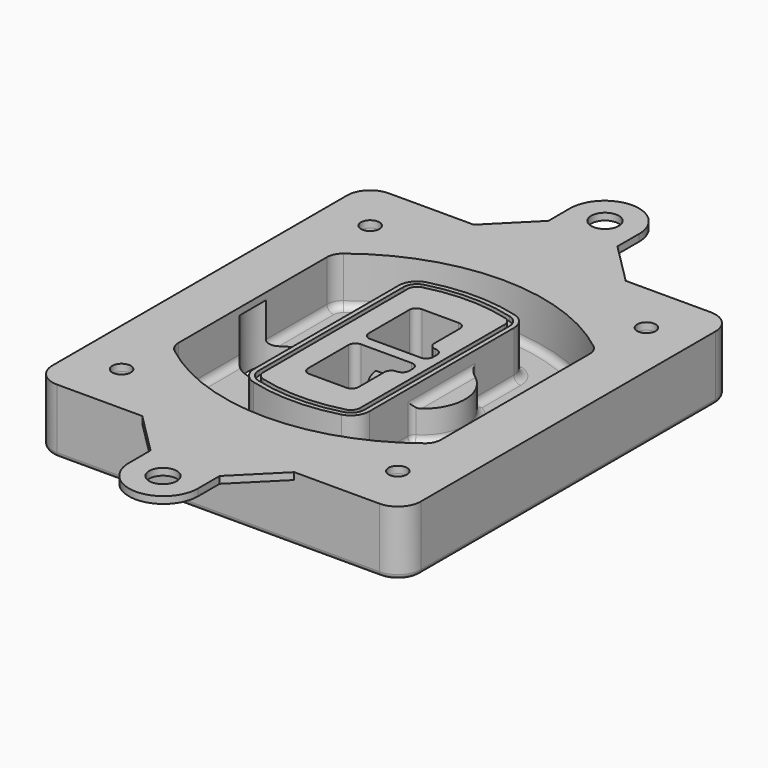
from build123d import *

# Parameters (mm, degrees)
F0_R      = 4
F1_DEPTH  = 25
F2_DEPTH  = 3
F3_DEPTH  = 18
F5_DEPTH  = 21
F6_DEPTH  = 2
F8_DEPTH  = 20
F9_DEPTH  = 16
F10_DEPTH = 25
F7_R      = 6
F7_R_2    = 4
F11_DEPTH = 6
F13_DEPTH = 9
F14_R     = 3
F15_R     = 2
F16_R     = 6
F16_R_2   = 4
F17_DEPTH = 3


with BuildPart() as f1:
    # F0 (on Top) → F1 (new body)
    with BuildSketch(Plane.XY):
        with BuildLine():
            ThreePointArc((-80, -80), (-77.0710678119, -87.0710678119), (-70, -90))
            Line((-70, -90), (70, -90))
            ThreePointArc((70, -90), (77.0710678119, -87.0710678119), (80, -80))
            Line((80, -80), (80, 80))
            ThreePointArc((80, 80), (77.0710678119, 87.0710678119), (70, 90))
            Line((70, 90), (-70, 90))
            ThreePointArc((-70, 90), (-77.0710678119, 87.0710678119), (-80, 80))
            Line((-80, 80), (-80, -80))
        make_face()
        with Locations((-60, -67.5)):
            Circle(F0_R, mode=Mode.SUBTRACT)
        with Locations((60, -67.5)):
            Circle(F0_R, mode=Mode.SUBTRACT)
        with Locations((-60, 67.5)):
            Circle(F0_R, mode=Mode.SUBTRACT)
        with BuildLine():
            ThreePointArc((-64, 40.2934422872), (-62.5820384798, 46.4328484224), (-58.6153846154, 51.3286200352))
            ThreePointArc((-58.6153846154, 51.3286200352), (0, 71.5), (58.6153846154, 51.3286200352))
            ThreePointArc((58.6153846154, 51.3286200352), (62.5820384798, 46.4328484224), (64, 40.2934422872))
            Line((64, 40.2934422872), (64, -40.2934422872))
            ThreePointArc((64, -40.2934422872), (62.5820384798, -46.4328484224), (58.6153846154, -51.3286200352))
            ThreePointArc((58.6153846154, -51.3286200352), (0, -71.5), (-58.6153846154, -51.3286200352))
            ThreePointArc((-58.6153846154, -51.3286200352), (-62.5820384798, -46.4328484224), (-64, -40.2934422872))
            Line((-64, -40.2934422872), (-64, 40.2934422872))
        make_face(mode=Mode.SUBTRACT)
        with Locations((60, 67.5)):
            Circle(F0_R, mode=Mode.SUBTRACT)
        with BuildLine():
            ThreePointArc((58.6153846154, 51.3286200352), (0, 71.5), (-58.6153846154, 51.3286200352))
            ThreePointArc((-58.6153846154, 51.3286200352), (-62.5820384798, 46.4328484224), (-64, 40.2934422872))
            Line((-64, 40.2934422872), (-64, -40.2934422872))
            ThreePointArc((-64, -40.2934422872), (-62.5820384798, -46.4328484224), (-58.6153846154, -51.3286200352))
            ThreePointArc((-58.6153846154, -51.3286200352), (0, -71.5), (58.6153846154, -51.3286200352))
            ThreePointArc((58.6153846154, -51.3286200352), (62.5820384798, -46.4328484224), (64, -40.2934422872))
            Line((64, -40.2934422872), (64, 40.2934422872))
            ThreePointArc((64, 40.2934422872), (62.5820384798, 46.4328484224), (58.6153846154, 51.3286200352))
        make_face()
        with BuildLine():
            Line((-60, -40.2934422872), (-60, 40.2934422872))
            ThreePointArc((-60, 40.2934422872), (-58.9871703427, 44.6787323838), (-56.1538461538, 48.1757121072))
            ThreePointArc((-56.1538461538, 48.1757121072), (0, 67.5), (56.1538461538, 48.1757121072))
            ThreePointArc((56.1538461538, 48.1757121072), (58.9871703427, 44.6787323838), (60, 40.2934422872))
            Line((60, 40.2934422872), (60, -40.2934422872))
            ThreePointArc((60, -40.2934422872), (58.9871703427, -44.6787323838), (56.1538461538, -48.1757121072))
            ThreePointArc((56.1538461538, -48.1757121072), (0, -67.5), (-56.1538461538, -48.1757121072))
            ThreePointArc((-56.1538461538, -48.1757121072), (-58.9871703427, -44.6787323838), (-60, -40.2934422872))
        make_face(mode=Mode.SUBTRACT)
        with BuildLine():
            ThreePointArc((-56.1538461538, 48.1757121072), (-58.9871703427, 44.6787323838), (-60, 40.2934422872))
            Line((-60, 40.2934422872), (-60, -40.2934422872))
            ThreePointArc((-60, -40.2934422872), (-58.9871703427, -44.6787323838), (-56.1538461538, -48.1757121072))
            ThreePointArc((-56.1538461538, -48.1757121072), (0, -67.5), (56.1538461538, -48.1757121072))
            ThreePointArc((56.1538461538, -48.1757121072), (58.9871703427, -44.6787323838), (60, -40.2934422872))
            Line((60, -40.2934422872), (60, 40.2934422872))
            ThreePointArc((60, 40.2934422872), (58.9871703427, 44.6787323838), (56.1538461538, 48.1757121072))
            ThreePointArc((56.1538461538, 48.1757121072), (0, 67.5), (-56.1538461538, 48.1757121072))
        make_face()
        with BuildLine():
            ThreePointArc((54.3076923077, 45.8110311612), (56.2910192399, 43.3631453548), (57, 40.2934422872))
            Line((57, 40.2934422872), (57, -40.2934422872))
            ThreePointArc((57, -40.2934422872), (56.2910192399, -43.3631453548), (54.3076923077, -45.8110311612))
            ThreePointArc((54.3076923077, -45.8110311612), (0, -64.5), (-54.3076923077, -45.8110311612))
            ThreePointArc((-54.3076923077, -45.8110311612), (-56.2910192399, -43.3631453548), (-57, -40.2934422872))
            Line((-57, -40.2934422872), (-57, 40.2934422872))
            ThreePointArc((-57, 40.2934422872), (-56.2910192399, 43.3631453548), (-54.3076923077, 45.8110311612))
            ThreePointArc((-54.3076923077, 45.8110311612), (0, 64.5), (54.3076923077, 45.8110311612))
        make_face(mode=Mode.SUBTRACT)
        with BuildLine():
            Line((57, -40.2934422872), (57, 40.2934422872))
            ThreePointArc((57, 40.2934422872), (56.2910192399, 43.3631453548), (54.3076923077, 45.8110311612))
            ThreePointArc((54.3076923077, 45.8110311612), (0, 64.5), (-54.3076923077, 45.8110311612))
            ThreePointArc((-54.3076923077, 45.8110311612), (-56.2910192399, 43.3631453548), (-57, 40.2934422872))
            Line((-57, 40.2934422872), (-57, -40.2934422872))
            ThreePointArc((-57, -40.2934422872), (-56.2910192399, -43.3631453548), (-54.3076923077, -45.8110311612))
            ThreePointArc((-54.3076923077, -45.8110311612), (0, -64.5), (54.3076923077, -45.8110311612))
            ThreePointArc((54.3076923077, -45.8110311612), (56.2910192399, -43.3631453548), (57, -40.2934422872))
        make_face()
    extrude(amount=-F1_DEPTH)

    # F0 (on Top) → F2 (join)
    with BuildSketch(Plane.XY):
        with BuildLine():
            ThreePointArc((-56.1538461538, 48.1757121072), (-58.9871703427, 44.6787323838), (-60, 40.2934422872))
            Line((-60, 40.2934422872), (-60, -40.2934422872))
            ThreePointArc((-60, -40.2934422872), (-58.9871703427, -44.6787323838), (-56.1538461538, -48.1757121072))
            ThreePointArc((-56.1538461538, -48.1757121072), (0, -67.5), (56.1538461538, -48.1757121072))
            ThreePointArc((56.1538461538, -48.1757121072), (58.9871703427, -44.6787323838), (60, -40.2934422872))
            Line((60, -40.2934422872), (60, 40.2934422872))
            ThreePointArc((60, 40.2934422872), (58.9871703427, 44.6787323838), (56.1538461538, 48.1757121072))
            ThreePointArc((56.1538461538, 48.1757121072), (0, 67.5), (-56.1538461538, 48.1757121072))
        make_face()
        with BuildLine():
            ThreePointArc((54.3076923077, 45.8110311612), (56.2910192399, 43.3631453548), (57, 40.2934422872))
            Line((57, 40.2934422872), (57, -40.2934422872))
            ThreePointArc((57, -40.2934422872), (56.2910192399, -43.3631453548), (54.3076923077, -45.8110311612))
            ThreePointArc((54.3076923077, -45.8110311612), (0, -64.5), (-54.3076923077, -45.8110311612))
            ThreePointArc((-54.3076923077, -45.8110311612), (-56.2910192399, -43.3631453548), (-57, -40.2934422872))
            Line((-57, -40.2934422872), (-57, 40.2934422872))
            ThreePointArc((-57, 40.2934422872), (-56.2910192399, 43.3631453548), (-54.3076923077, 45.8110311612))
            ThreePointArc((-54.3076923077, 45.8110311612), (0, 64.5), (54.3076923077, 45.8110311612))
        make_face(mode=Mode.SUBTRACT)
    extrude(amount=F2_DEPTH)

    # F0 (on Top) → F3 (cut)
    with BuildSketch(Plane.XY):
        with BuildLine():
            Line((57, -40.2934422872), (57, 40.2934422872))
            ThreePointArc((57, 40.2934422872), (56.2910192399, 43.3631453548), (54.3076923077, 45.8110311612))
            ThreePointArc((54.3076923077, 45.8110311612), (0, 64.5), (-54.3076923077, 45.8110311612))
            ThreePointArc((-54.3076923077, 45.8110311612), (-56.2910192399, 43.3631453548), (-57, 40.2934422872))
            Line((-57, 40.2934422872), (-57, -40.2934422872))
            ThreePointArc((-57, -40.2934422872), (-56.2910192399, -43.3631453548), (-54.3076923077, -45.8110311612))
            ThreePointArc((-54.3076923077, -45.8110311612), (0, -64.5), (54.3076923077, -45.8110311612))
            ThreePointArc((54.3076923077, -45.8110311612), (56.2910192399, -43.3631453548), (57, -40.2934422872))
        make_face()
    extrude(amount=-F3_DEPTH, mode=Mode.SUBTRACT)

    # F4 (on face) → F5 (join, through all)
    with BuildSketch(Plane.XY.offset(3)):
        with BuildLine():
            ThreePointArc((-25, -39.2465276821), (-23.3511545998, -44.1109737193), (-19.0842911877, -46.9702398883))
            ThreePointArc((-19.0842911877, -46.9702398883), (0, -49.5), (19.0842911877, -46.9702398883))
            ThreePointArc((19.0842911877, -46.9702398883), (23.3511545998, -44.1109737193), (25, -39.2465276821))
            Line((25, -39.2465276821), (25, 39.2465276821))
            ThreePointArc((25, 39.2465276821), (23.3511545998, 44.1109737193), (19.0842911877, 46.9702398883))
            ThreePointArc((19.0842911877, 46.9702398883), (0, 49.5), (-19.0842911877, 46.9702398883))
            ThreePointArc((-19.0842911877, 46.9702398883), (-23.3511545998, 44.1109737193), (-25, 39.2465276821))
            Line((-25, 39.2465276821), (-25, -39.2465276821))
        make_face()
        with BuildLine():
            ThreePointArc((18.5632183908, 45.0393118368), (21.7633659499, 42.89486221), (23, 39.2465276821))
            Line((23, 39.2465276821), (23, -39.2465276821))
            ThreePointArc((23, -39.2465276821), (21.7633659499, -42.89486221), (18.5632183908, -45.0393118368))
            ThreePointArc((18.5632183908, -45.0393118368), (0, -47.5), (-18.5632183908, -45.0393118368))
            ThreePointArc((-18.5632183908, -45.0393118368), (-21.7633659499, -42.89486221), (-23, -39.2465276821))
            Line((-23, -39.2465276821), (-23, 39.2465276821))
            ThreePointArc((-23, 39.2465276821), (-21.7633659499, 42.89486221), (-18.5632183908, 45.0393118368))
            ThreePointArc((-18.5632183908, 45.0393118368), (0, 47.5), (18.5632183908, 45.0393118368))
        make_face(mode=Mode.SUBTRACT)
        with BuildLine():
            Line((23, -39.2465276821), (23, 39.2465276821))
            ThreePointArc((23, 39.2465276821), (21.7633659499, 42.89486221), (18.5632183908, 45.0393118368))
            ThreePointArc((18.5632183908, 45.0393118368), (0, 47.5), (-18.5632183908, 45.0393118368))
            ThreePointArc((-18.5632183908, 45.0393118368), (-21.7633659499, 42.89486221), (-23, 39.2465276821))
            Line((-23, 39.2465276821), (-23, -39.2465276821))
            ThreePointArc((-23, -39.2465276821), (-21.7633659499, -42.89486221), (-18.5632183908, -45.0393118368))
            ThreePointArc((-18.5632183908, -45.0393118368), (0, -47.5), (18.5632183908, -45.0393118368))
            ThreePointArc((18.5632183908, -45.0393118368), (21.7633659499, -42.89486221), (23, -39.2465276821))
        make_face()
        with BuildLine():
            ThreePointArc((18.0421455939, 43.1083837852), (20.1755772999, 41.6787507007), (21, 39.2465276821))
            Line((21, 39.2465276821), (21, -39.2465276821))
            ThreePointArc((21, -39.2465276821), (20.1755772999, -41.6787507007), (18.0421455939, -43.1083837852))
            ThreePointArc((18.0421455939, -43.1083837852), (0, -45.5), (-18.0421455939, -43.1083837852))
            ThreePointArc((-18.0421455939, -43.1083837852), (-20.1755772999, -41.6787507007), (-21, -39.2465276821))
            Line((-21, -39.2465276821), (-21, 39.2465276821))
            ThreePointArc((-21, 39.2465276821), (-20.1755772999, 41.6787507007), (-18.0421455939, 43.1083837852))
            ThreePointArc((-18.0421455939, 43.1083837852), (0, 45.5), (18.0421455939, 43.1083837852))
        make_face(mode=Mode.SUBTRACT)
        with BuildLine():
            Line((21, -39.2465276821), (21, 39.2465276821))
            ThreePointArc((21, 39.2465276821), (20.1755772999, 41.6787507007), (18.0421455939, 43.1083837852))
            ThreePointArc((18.0421455939, 43.1083837852), (0, 45.5), (-18.0421455939, 43.1083837852))
            ThreePointArc((-18.0421455939, 43.1083837852), (-20.1755772999, 41.6787507007), (-21, 39.2465276821))
            Line((-21, 39.2465276821), (-21, -39.2465276821))
            ThreePointArc((-21, -39.2465276821), (-20.1755772999, -41.6787507007), (-18.0421455939, -43.1083837852))
            ThreePointArc((-18.0421455939, -43.1083837852), (0, -45.5), (18.0421455939, -43.1083837852))
            ThreePointArc((18.0421455939, -43.1083837852), (20.1755772999, -41.6787507007), (21, -39.2465276821))
        make_face()
        with BuildLine():
            Line((-8, -2.5), (14, -2.5))
            ThreePointArc((14, -2.5), (16.1213203436, -3.3786796564), (17, -5.5))
            Line((17, -5.5), (17, -7.5))
            ThreePointArc((17, -7.5), (16.1213203436, -9.6213203436), (14, -10.5))
            ThreePointArc((14, -10.5), (11.8786796564, -11.3786796564), (11, -13.5))
            Line((11, -13.5), (11, -27.5))
            ThreePointArc((11, -27.5), (10.1213203436, -29.6213203436), (8, -30.5))
            Line((8, -30.5), (-8, -30.5))
            ThreePointArc((-8, -30.5), (-10.1213203436, -29.6213203436), (-11, -27.5))
            Line((-11, -27.5), (-11, -5.5))
            ThreePointArc((-11, -5.5), (-10.1213203436, -3.3786796564), (-8, -2.5))
        make_face(mode=Mode.SUBTRACT)
        with BuildLine():
            ThreePointArc((-8, 2.5), (-10.1213203436, 3.3786796564), (-11, 5.5))
            Line((-11, 5.5), (-11, 27.5))
            ThreePointArc((-11, 27.5), (-10.1213203436, 29.6213203436), (-8, 30.5))
            Line((-8, 30.5), (8, 30.5))
            ThreePointArc((8, 30.5), (10.1213203436, 29.6213203436), (11, 27.5))
            Line((11, 27.5), (11, 13.5))
            ThreePointArc((11, 13.5), (11.8786796564, 11.3786796564), (14, 10.5))
            ThreePointArc((14, 10.5), (16.1213203436, 9.6213203436), (17, 7.5))
            Line((17, 7.5), (17, 5.5))
            ThreePointArc((17, 5.5), (16.1213203436, 3.3786796564), (14, 2.5))
            Line((14, 2.5), (-8, 2.5))
        make_face(mode=Mode.SUBTRACT)
    extrude(amount=-F5_DEPTH)

    # F4 (on face) → F6 (cut)
    with BuildSketch(Plane.XY.offset(3)):
        with BuildLine():
            Line((23, -39.2465276821), (23, 39.2465276821))
            ThreePointArc((23, 39.2465276821), (21.7633659499, 42.89486221), (18.5632183908, 45.0393118368))
            ThreePointArc((18.5632183908, 45.0393118368), (0, 47.5), (-18.5632183908, 45.0393118368))
            ThreePointArc((-18.5632183908, 45.0393118368), (-21.7633659499, 42.89486221), (-23, 39.2465276821))
            Line((-23, 39.2465276821), (-23, -39.2465276821))
            ThreePointArc((-23, -39.2465276821), (-21.7633659499, -42.89486221), (-18.5632183908, -45.0393118368))
            ThreePointArc((-18.5632183908, -45.0393118368), (0, -47.5), (18.5632183908, -45.0393118368))
            ThreePointArc((18.5632183908, -45.0393118368), (21.7633659499, -42.89486221), (23, -39.2465276821))
        make_face()
        with BuildLine():
            ThreePointArc((18.0421455939, 43.1083837852), (20.1755772999, 41.6787507007), (21, 39.2465276821))
            Line((21, 39.2465276821), (21, -39.2465276821))
            ThreePointArc((21, -39.2465276821), (20.1755772999, -41.6787507007), (18.0421455939, -43.1083837852))
            ThreePointArc((18.0421455939, -43.1083837852), (0, -45.5), (-18.0421455939, -43.1083837852))
            ThreePointArc((-18.0421455939, -43.1083837852), (-20.1755772999, -41.6787507007), (-21, -39.2465276821))
            Line((-21, -39.2465276821), (-21, 39.2465276821))
            ThreePointArc((-21, 39.2465276821), (-20.1755772999, 41.6787507007), (-18.0421455939, 43.1083837852))
            ThreePointArc((-18.0421455939, 43.1083837852), (0, 45.5), (18.0421455939, 43.1083837852))
        make_face(mode=Mode.SUBTRACT)
    extrude(amount=-F6_DEPTH, mode=Mode.SUBTRACT)

    # F7 (on face) → F8 (join)
    with BuildSketch(Plane(origin=(0, 0, -25), x_dir=(1, 0, 0), z_dir=(0, 0, -1))):
        with BuildLine():
            ThreePointArc((3.28842436, 0), (16.7567035675, 13.4682792075), (30.224982775, 0))
            Line((30.224982775, 0), (35.224982775, 0))
            ThreePointArc((35.224982775, 0), (16.7567035675, 18.4682792075), (-1.71157564, 0))
            Line((-1.71157564, 0), (3.28842436, 0))
        make_face()
        with BuildLine():
            Line((3.28842436, 0), (30.224982775, 0))
            ThreePointArc((30.224982775, 0), (16.7567035675, 13.4682792075), (3.28842436, 0))
        make_face()
        with BuildLine():
            ThreePointArc((3.28842436, 0), (16.7567035675, -13.4682792075), (30.224982775, 0))
            Line((30.224982775, 0), (3.28842436, 0))
        make_face()
        with BuildLine():
            Line((35.224982775, 0), (30.224982775, 0))
            ThreePointArc((30.224982775, 0), (16.7567035675, -13.4682792075), (3.28842436, 0))
            Line((3.28842436, 0), (-1.71157564, 0))
            ThreePointArc((-1.71157564, 0), (16.7567035675, -18.4682792075), (35.224982775, 0))
        make_face()
    extrude(amount=-F8_DEPTH)

    # F7 (on face) → F9 (cut)
    with BuildSketch(Plane(origin=(0, 0, -25), x_dir=(1, 0, 0), z_dir=(0, 0, -1))):
        with BuildLine():
            Line((3.28842436, 0), (30.224982775, 0))
            ThreePointArc((30.224982775, 0), (16.7567035675, 13.4682792075), (3.28842436, 0))
        make_face()
        with BuildLine():
            ThreePointArc((3.28842436, 0), (16.7567035675, -13.4682792075), (30.224982775, 0))
            Line((30.224982775, 0), (3.28842436, 0))
        make_face()
    extrude(amount=-F9_DEPTH, mode=Mode.SUBTRACT)

    # F7 (on face) → F10 (cut)
    with BuildSketch(Plane(origin=(0, 0, -25), x_dir=(1, 0, 0), z_dir=(0, 0, -1))):
        with BuildLine():
            Line((-59.0318229325, 0), (-32.0952645175, 0))
            ThreePointArc((-32.0952645175, 0), (-45.563543725, 13.4682792075), (-59.0318229325, 0))
        make_face()
        with BuildLine():
            ThreePointArc((-59.0318229325, 0), (-45.563543725, -13.4682792075), (-32.0952645175, 0))
            Line((-32.0952645175, 0), (-59.0318229325, 0))
        make_face()
    extrude(amount=-F10_DEPTH, mode=Mode.SUBTRACT)

    # F7 (on face) → F11 (cut)
    with BuildSketch(Plane(origin=(0, 0, -25), x_dir=(1, 0, 0), z_dir=(0, 0, -1))):
        with Locations((60, -67.5)):
            Circle(F7_R)
        with Locations((60, -67.5)):
            Circle(F7_R_2, mode=Mode.SUBTRACT)
        with Locations((60, -67.5)):
            Circle(F7_R)
        with Locations((60, -67.5)):
            Circle(F7_R_2, mode=Mode.SUBTRACT)
        with Locations((-60, -67.5)):
            Circle(F7_R)
        with Locations((-60, -67.5)):
            Circle(F7_R_2, mode=Mode.SUBTRACT)
        with Locations((-60, -67.5)):
            Circle(F7_R)
        with Locations((-60, -67.5)):
            Circle(F7_R_2, mode=Mode.SUBTRACT)
        with Locations((-60, 67.5)):
            Circle(F7_R)
        with Locations((-60, 67.5)):
            Circle(F7_R_2, mode=Mode.SUBTRACT)
        with Locations((-60, 67.5)):
            Circle(F7_R)
        with Locations((-60, 67.5)):
            Circle(F7_R_2, mode=Mode.SUBTRACT)
        with Locations((60, 67.5)):
            Circle(F7_R)
        with Locations((60, 67.5)):
            Circle(F7_R_2, mode=Mode.SUBTRACT)
        with Locations((60, 67.5)):
            Circle(F7_R)
        with Locations((60, 67.5)):
            Circle(F7_R_2, mode=Mode.SUBTRACT)
    extrude(amount=-F11_DEPTH, mode=Mode.SUBTRACT)

    # F12 (on face) → F13 (cut, through all)
    with BuildSketch(Plane(origin=(0, 0, -9), x_dir=(1, 0, 0), z_dir=(0, 0, -1))):
        with BuildLine():
            Line((11, 13.5), (11, 17.5481537753))
            ThreePointArc((11, 17.5481537753), (2.5696536419, 11.8239143813), (-1.5415842455, 2.5))
            Line((-1.5415842455, 2.5), (3.5224848595, 2.5))
            ThreePointArc((3.5224848595, 2.5), (6.1857188154, 8.3455872281), (11.2536447004, 12.2927168648))
            ThreePointArc((11.2536447004, 12.2927168648), (11.0640958889, 12.8831798879), (11, 13.5))
        make_face()
        with BuildLine():
            ThreePointArc((11.2536447004, -12.2927168648), (6.1857188154, -8.3455872281), (3.5224848595, -2.5))
            Line((3.5224848595, -2.5), (-1.5415842455, -2.5))
            ThreePointArc((-1.5415842455, -2.5), (2.5696536419, -11.8239143813), (11, -17.5481537753))
            Line((11, -17.5481537753), (11, -13.5))
            ThreePointArc((11, -13.5), (11.0640958889, -12.8831798879), (11.2536447004, -12.2927168648))
        make_face()
        with BuildLine():
            ThreePointArc((11.2536447004, 12.2927168648), (6.1857188154, 8.3455872281), (3.5224848595, 2.5))
            Line((3.5224848595, 2.5), (14, 2.5))
            ThreePointArc((14, 2.5), (16.1213203436, 3.3786796564), (17, 5.5))
            Line((17, 5.5), (17, 7.5))
            ThreePointArc((17, 7.5), (16.1213203436, 9.6213203436), (14, 10.5))
            ThreePointArc((14, 10.5), (12.3601599782, 10.9878446101), (11.2536447004, 12.2927168648))
        make_face()
        with BuildLine():
            Line((14, -2.5), (3.5224848595, -2.5))
            ThreePointArc((3.5224848595, -2.5), (6.1857188154, -8.3455872281), (11.2536447004, -12.2927168648))
            ThreePointArc((11.2536447004, -12.2927168648), (12.3601599782, -10.9878446101), (14, -10.5))
            ThreePointArc((14, -10.5), (16.1213203436, -9.6213203436), (17, -7.5))
            Line((17, -7.5), (17, -5.5))
            ThreePointArc((17, -5.5), (16.1213203436, -3.3786796564), (14, -2.5))
        make_face()
    extrude(amount=F13_DEPTH, mode=Mode.SUBTRACT)

    # F14
    f14_edges = [f1.edges().sort_by_distance(p)[0] for p in [
        (-57, -23.703476, -18),
        (-57, 23.703476, -18),
        (25, 0, -5),
        (25, 16.526506, -11.5),
        (25, -16.526506, -11.5),
        (25, -27.886517, -18),
        (35.224983, 0, -18),
    ]]
    fillet(f14_edges, radius=F14_R)

    # F15
    f15_edges = [f1.edges().sort_by_distance(p)[0] for p in [
        (0, -90, -25),
    ]]
    fillet(f15_edges, radius=F15_R)

    # F16 (on face) → F17 (join, through all)
    with BuildSketch(Plane.XY):
        with BuildLine():
            Line((-15, 119.7621213995), (-15, 108))
            Line((-15, 108), (-33, 90))
            Line((-33, 90), (33, 90))
            Line((33, 90), (15, 108))
            Line((15, 108), (15, 119.7621213995))
            ThreePointArc((15, 119.7621213995), (0, 134.7621213995), (-15, 119.7621213995))
        make_face()
        with Locations((0, 120)):
            Circle(F16_R, mode=Mode.SUBTRACT)
        with BuildLine():
            Line((33, -90), (-33, -90))
            Line((-33, -90), (-15, -108))
            Line((-15, -108), (-15, -119.7621213995))
            ThreePointArc((-15, -119.7621213995), (0, -134.7621213995), (15, -119.7621213995))
            Line((15, -119.7621213995), (15, -108))
            Line((15, -108), (33, -90))
        make_face()
        with Locations((0, -120)):
            Circle(F16_R, mode=Mode.SUBTRACT)
        with BuildLine():
            Line((33, 90), (-33, 90))
            Line((-33, 90), (-70, 90))
            ThreePointArc((-70, 90), (-77.0710678119, 87.0710678119), (-80, 80))
            Line((-80, 80), (-80, -80))
            ThreePointArc((-80, -80), (-77.0710678119, -87.0710678119), (-70, -90))
            Line((-70, -90), (-33, -90))
            Line((-33, -90), (33, -90))
            Line((33, -90), (70, -90))
            ThreePointArc((70, -90), (77.0710678119, -87.0710678119), (80, -80))
            Line((80, -80), (80, 80))
            ThreePointArc((80, 80), (77.0710678119, 87.0710678119), (70, 90))
            Line((70, 90), (33, 90))
        make_face()
        with Locations((-60, -67.5)):
            Circle(F16_R_2, mode=Mode.SUBTRACT)
        with Locations((60, -67.5)):
            Circle(F16_R_2, mode=Mode.SUBTRACT)
        with Locations((-60, 67.5)):
            Circle(F16_R_2, mode=Mode.SUBTRACT)
        with BuildLine():
            ThreePointArc((-60, 40.2934422872), (-58.9871703427, 44.6787323838), (-56.1538461538, 48.1757121072))
            ThreePointArc((-56.1538461538, 48.1757121072), (0, 67.5), (56.1538461538, 48.1757121072))
            ThreePointArc((56.1538461538, 48.1757121072), (58.9871703427, 44.6787323838), (60, 40.2934422872))
            Line((60, 40.2934422872), (60, -40.2934422872))
            ThreePointArc((60, -40.2934422872), (58.9871703427, -44.6787323838), (56.1538461538, -48.1757121072))
            ThreePointArc((56.1538461538, -48.1757121072), (0, -67.5), (-56.1538461538, -48.1757121072))
            ThreePointArc((-56.1538461538, -48.1757121072), (-58.9871703427, -44.6787323838), (-60, -40.2934422872))
            Line((-60, -40.2934422872), (-60, 40.2934422872))
        make_face(mode=Mode.SUBTRACT)
        with Locations((60, 67.5)):
            Circle(F16_R_2, mode=Mode.SUBTRACT)
    extrude(amount=F17_DEPTH)


solid = f1.part
